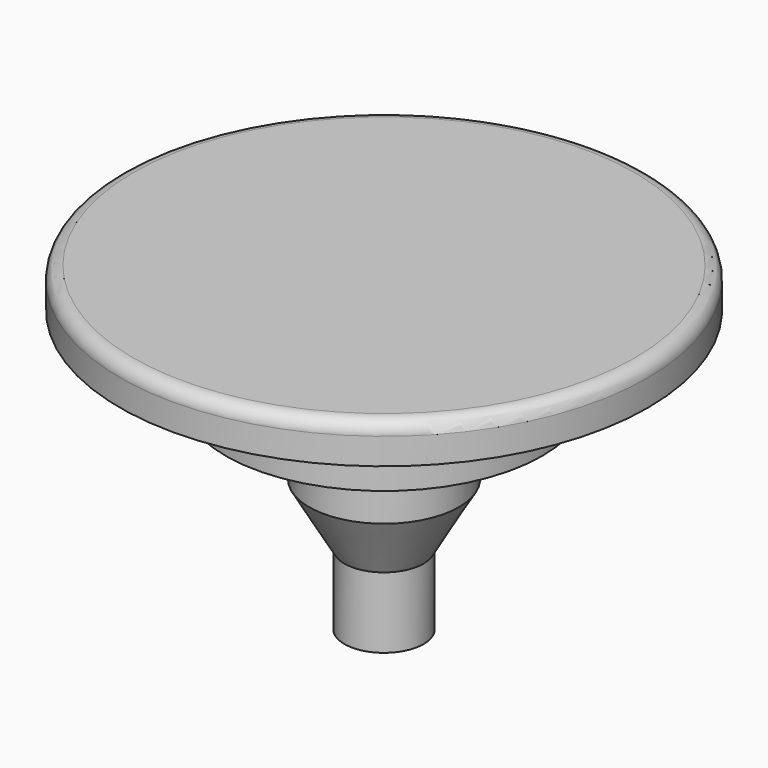
from build123d import *

# Parameters (mm, degrees)
F2_R = 2.54


with BuildPart() as f1:
    # F0 (on Front) → F1 (revolve)
    with BuildSketch(Plane.XZ):
        Polygon((0, 61.70182), (0, 0), (7.62, 0), (7.62, 13.627926), (14.430207, 25.423551), (14.430207, 37.917136), (30.48, 39.321311), (30.48, 54.08182), (50.8, 54.08182), (50.8, 61.70182), align=None)
    revolve(axis=Axis((0, 0, 30.85091), (0, 0, 1)))

    # F2
    f2_edges = [f1.edges().sort_by_distance(p)[0] for p in [
        (-50.8, 0, 61.70182),
    ]]
    fillet(f2_edges, radius=F2_R)


solid = f1.part
